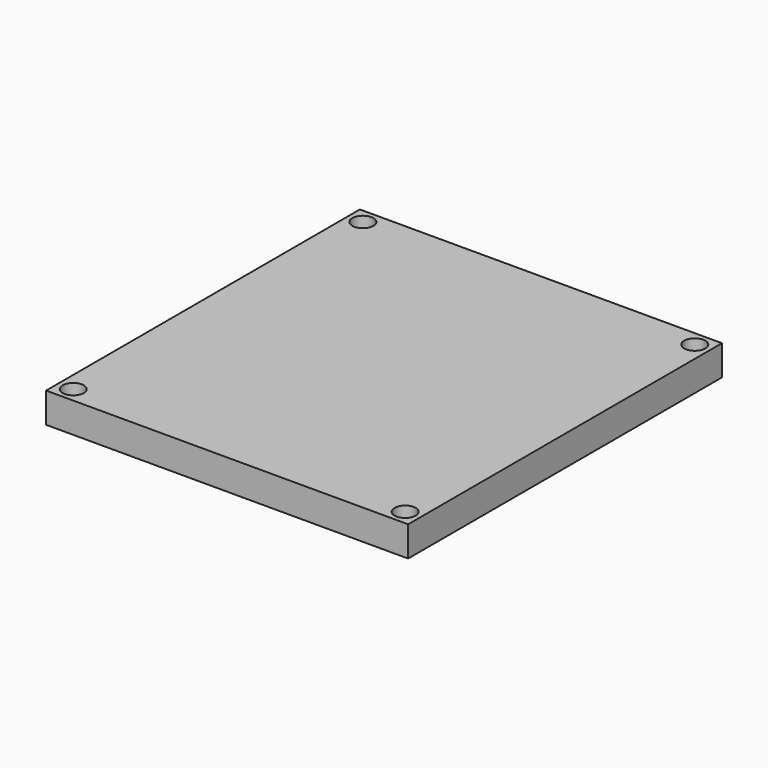
from build123d import *

# Parameters (mm, degrees)
SKETCH_W  = 60
SKETCH_H  = 65
SKETCH_R  = 1.75
PAD_DEPTH = 5


with BuildPart() as part:
    # Sketch → Pad (new body)
    with BuildSketch(Plane.XY):
        Rectangle(SKETCH_W, SKETCH_H)
        with Locations((-27.5, 30)):
            Circle(SKETCH_R, mode=Mode.SUBTRACT)
        with Locations((27.5, 30)):
            Circle(SKETCH_R, mode=Mode.SUBTRACT)
        with Locations((-27.5, -30)):
            Circle(SKETCH_R, mode=Mode.SUBTRACT)
        with Locations((27.5, -30)):
            Circle(SKETCH_R, mode=Mode.SUBTRACT)
    extrude(amount=PAD_DEPTH)


solid = part.part
